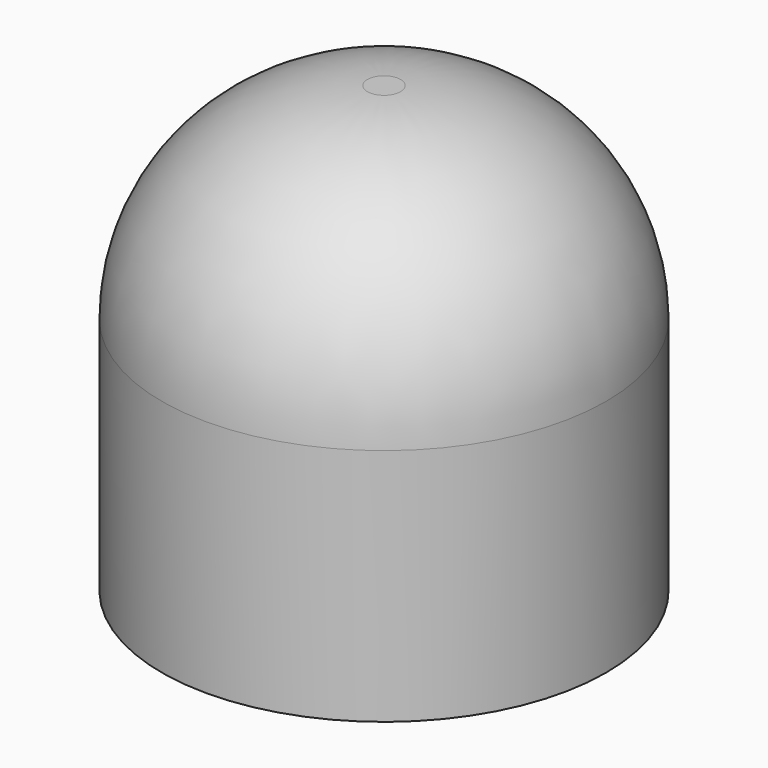
from build123d import *

# Parameters (mm, degrees)
F0_R     = 1524
F1_DEPTH = 3048
F2_R     = 1410.383563
F3_W     = 1748.718023
F3_H     = 1376.689672
F3_W_2   = 549.016118
F4_DEPTH = 25.4


with BuildPart() as f1:
    # F0 (on Top) → F1 (new body)
    with BuildSketch(Plane.XY):
        Circle(F0_R)
    extrude(amount=F1_DEPTH)

    # F2
    f2_edges = [f1.edges().sort_by_distance(p)[0] for p in [
        (-1524, 0, 3048),
    ]]
    fillet(f2_edges, radius=F2_R)

    # F3 (on Front) → F4 (join)
    with BuildSketch(Plane.XZ):
        with Locations((276.331424, 688.344836)):
            Rectangle(F3_W, F3_H)
        with Locations((-872.535646, 688.344836)):
            Rectangle(F3_W_2, F3_H)
    extrude(amount=F4_DEPTH)


solid = f1.part
